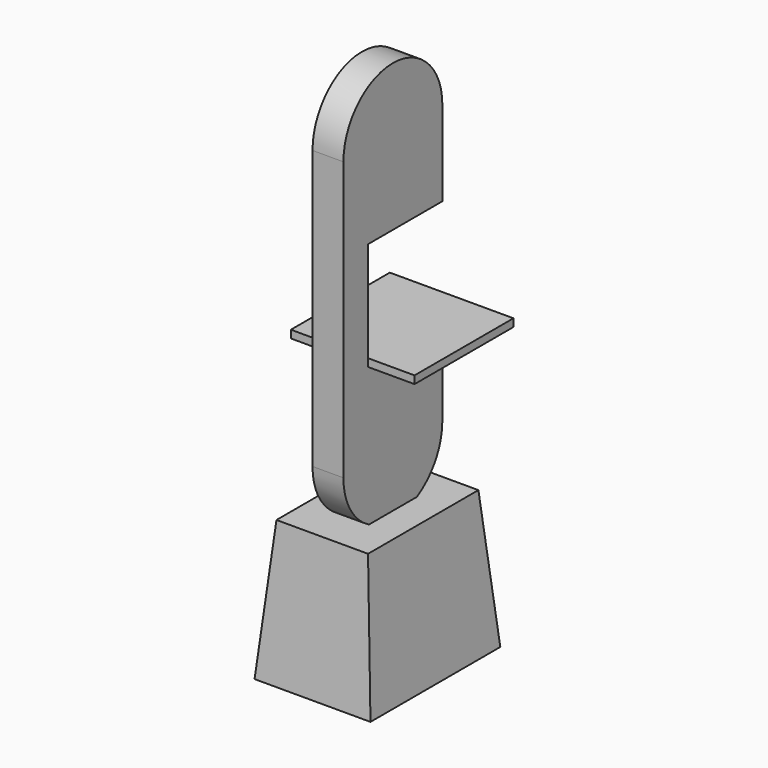
from build123d import *

# Parameters (mm, degrees)
F0_W     = 381
F0_H     = 533.4
F1_DEPTH = 457.2
F1_TAPER = 5
F3_DEPTH = 50.8
F4_W     = 406.4
F4_H     = 406.4
F5_DEPTH = 25.4


with BuildPart() as f1:
    # F0 (on Top) → F1 (new body)
    with BuildSketch(Plane.XY):
        with Locations((0, 266.7)):
            Rectangle(F0_W, F0_H)
    extrude(amount=F1_DEPTH, taper=F1_TAPER)

    # F2 (on Right) → F3 (join, symmetric)
    with BuildSketch(Plane.YZ):
        with BuildLine():
            Line((63.5, 1549.4), (63.5, 635))
            ThreePointArc((63.5, 635), (266.7, 431.8), (469.9, 635))
            Line((469.9, 635), (469.9, 914.4))
            Line((469.9, 914.4), (165.1, 914.4))
            Line((165.1, 914.4), (165.1, 1270))
            Line((165.1, 1270), (469.9, 1270))
            Line((469.9, 1270), (469.9, 1549.4))
            ThreePointArc((469.9, 1549.4), (266.7, 1752.6), (63.5, 1549.4))
        make_face()
    extrude(amount=F3_DEPTH, both=True)

    # F4 (on face) → F5 (join)
    with BuildSketch(Plane.XY.offset(914.4)):
        with Locations((0, 368.3)):
            Rectangle(F4_W, F4_H)
    extrude(amount=F5_DEPTH)


solid = f1.part
